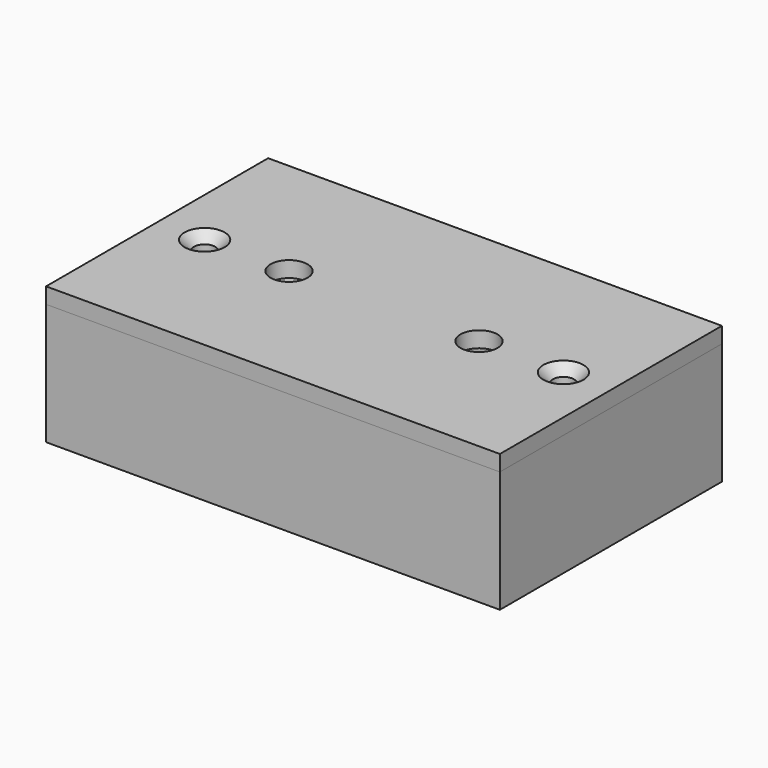
from build123d import *

# Parameters (mm, degrees)
SKETCH_W         = 43
SKETCH_H         = 26.3
SKETCH_W_2       = 40
SKETCH_H_2       = 23.3
PAD_DEPTH        = 10
SKETCH001_W      = 43
SKETCH001_H      = 26.3
PAD001_DEPTH     = 1.5
SKETCH003_W      = 10
SKETCH003_H      = 4
PAD003_DEPTH     = 3.4
SKETCH004_R      = 1
PAD004_DEPTH     = 9
POCKET001_DEPTH  = 13.151
SKETCH002_W      = 43
SKETCH002_H      = 26.3
PAD002_DEPTH     = 1.5
SKETCH005_R      = 1.75
POCKET_DEPTH     = 5
SKETCH006_W      = 38
SKETCH006_H      = 21.3
SKETCH006_W_2    = 36
SKETCH006_H_2    = 19.3
PAD005_DEPTH     = 1
HOLE_D           = 2
HOLE_DEPTH       = 25
HOLE_CSINK_D     = 3.8
HOLE_CSINK_ANGLE = 90


with BuildPart() as body:
    # Sketch → Pad (new body)
    with BuildSketch(Plane.XY):
        Rectangle(SKETCH_W, SKETCH_H)
        Rectangle(SKETCH_W_2, SKETCH_H_2, mode=Mode.SUBTRACT)
    extrude(amount=-PAD_DEPTH)

    # Sketch001 (on DatumPlane) → Pad001 (join)
    with BuildSketch(Plane(origin=(0, 0, -10), x_dir=(-1, 0, 0), z_dir=(0, 0, -1))):
        Rectangle(SKETCH001_W, SKETCH001_H)
    extrude(amount=PAD001_DEPTH)

    # Sketch003 (on DatumPlane) → Pad003 (join)
    with BuildSketch(Plane(origin=(0, 0, -10), x_dir=(-1, 0, 0), z_dir=(0, 0, -1))):
        with Locations((-15, 9.65)):
            Rectangle(SKETCH003_W, SKETCH003_H)
        with Locations((15, 9.65)):
            Rectangle(SKETCH003_W, SKETCH003_H)
        with Locations((15, -9.65)):
            Rectangle(SKETCH003_W, SKETCH003_H)
        with Locations((-15, -9.65)):
            Rectangle(SKETCH003_W, SKETCH003_H)
    extrude(amount=-PAD003_DEPTH)

    # Sketch004 (on DatumPlane) → Pad004 (join)
    with BuildSketch(Plane(origin=(0, 0, -10), x_dir=(-1, 0, 0), z_dir=(0, 0, -1))):
        with BuildLine():
            ThreePointArc((-17, -2.5), (-14.5, 0), (-17, 2.5))
            Line((-17, 2.5), (-20, 2.5))
            Line((-20, 2.5), (-20, -2.5))
            Line((-20, -2.5), (-17, -2.5))
        make_face()
        with Locations((-17, 0)):
            Circle(SKETCH004_R, mode=Mode.SUBTRACT)
        with BuildLine():
            ThreePointArc((17, 2.5), (14.5, 0), (17, -2.5))
            Line((20, -2.5), (17, -2.5))
            Line((20, 2.5), (20, -2.5))
            Line((17, 2.5), (20, 2.5))
        make_face()
        with Locations((17, 0)):
            Circle(SKETCH004_R, mode=Mode.SUBTRACT)
    extrude(amount=-PAD004_DEPTH)

    # Sketch008 → Pocket001 (cut, through all)
    with BuildSketch(Plane.XZ):
        with BuildLine():
            Line((-5, 0), (5, 0))
            Line((5, 0), (5, -2.5))
            ThreePointArc((3.5, -4), (4.56066, -3.56066), (5, -2.5))
            Line((3.5, -4), (-3.5, -4))
            ThreePointArc((-5, -2.5), (-4.56066, -3.56066), (-3.5, -4))
            Line((-5, -2.5), (-5, 0))
        make_face()
    extrude(amount=-POCKET001_DEPTH, mode=Mode.SUBTRACT)


with BuildPart() as body001:
    # Sketch002 → Pad002 (new body)
    with BuildSketch(Plane.XY):
        Rectangle(SKETCH002_W, SKETCH002_H)
    extrude(amount=PAD002_DEPTH)

    # Sketch005 → Pocket (cut)
    with BuildSketch(Plane.XY):
        with Locations((-9, 0)):
            Circle(SKETCH005_R)
        with Locations((9, 0)):
            Circle(SKETCH005_R)
    extrude(amount=POCKET_DEPTH, mode=Mode.SUBTRACT)

    # Sketch006 → Pad005 (join)
    with BuildSketch(Plane.XY):
        Rectangle(SKETCH006_W, SKETCH006_H)
        Rectangle(SKETCH006_W_2, SKETCH006_H_2, mode=Mode.SUBTRACT)
    extrude(amount=-PAD005_DEPTH)

    # Hole
    with Locations(Plane.XY.offset(1.5)):
        with Locations((-17, 0), (17, 0)):
            CounterSinkHole(HOLE_D / 2, HOLE_CSINK_D / 2, depth=HOLE_DEPTH, counter_sink_angle=HOLE_CSINK_ANGLE)


solid = Compound([body.part, body001.part])
